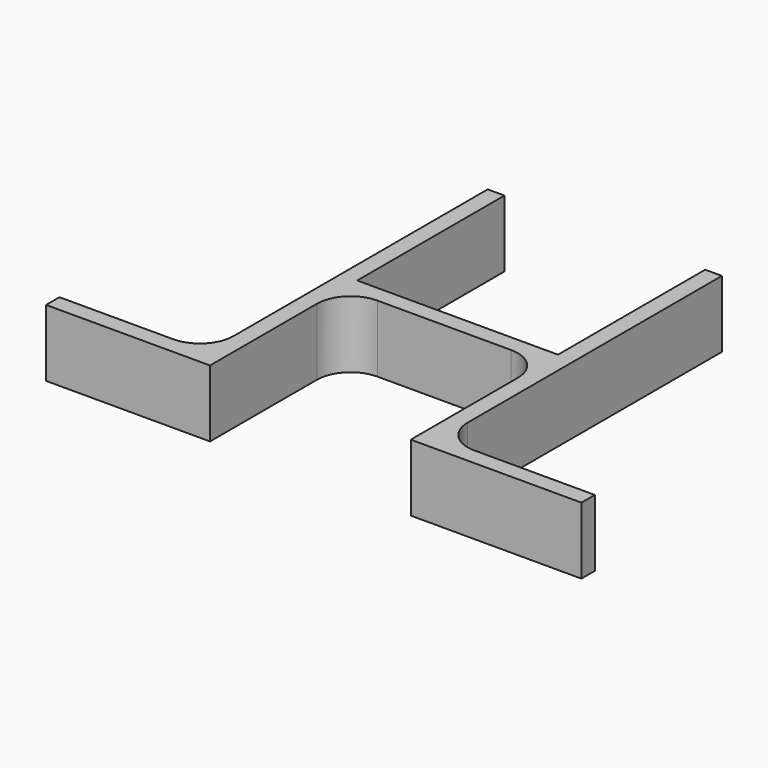
from build123d import *

# Parameters (mm, degrees)
F0_W     = 22
F0_H     = 2.5
F0_W_2   = 30
F0_W_3   = 23
F0_W_4   = 2.5
F1_DEPTH = 10
F2_R     = 5


with BuildPart() as f1:
    # F0 (on Top) → F1 (new body)
    with BuildSketch(Plane.XY):
        Polygon((-15.5, 2.5), (-15.5, 30), (-18, 30), (-18, -22.5), (-15.5, -22.5), (-15.5, 0), align=None)
        with Locations((-29, -23.75)):
            Rectangle(F0_W, F0_H)
        with Locations((-0.5, 1.25)):
            Rectangle(F0_W_2, F0_H)
        Polygon((14.5, 30), (14.5, 2.5), (14.5, 0), (14.5, -22.5), (17, -22.5), (17, 30), align=None)
        with Locations((28.5, -23.75)):
            Rectangle(F0_W_3, F0_H)
        with Locations((15.75, -23.75)):
            Rectangle(F0_W_4, F0_H)
        with Locations((-16.75, -23.75)):
            Rectangle(F0_W_4, F0_H)
    extrude(amount=F1_DEPTH)

    # F2
    f2_edges = [f1.edges().sort_by_distance(p)[0] for p in [
        (-18, -22.5, 5),
        (17, -22.5, 5),
        (14.5, 0, 5),
        (-15.5, 0, 5),
    ]]
    fillet(f2_edges, radius=F2_R)


solid = f1.part
